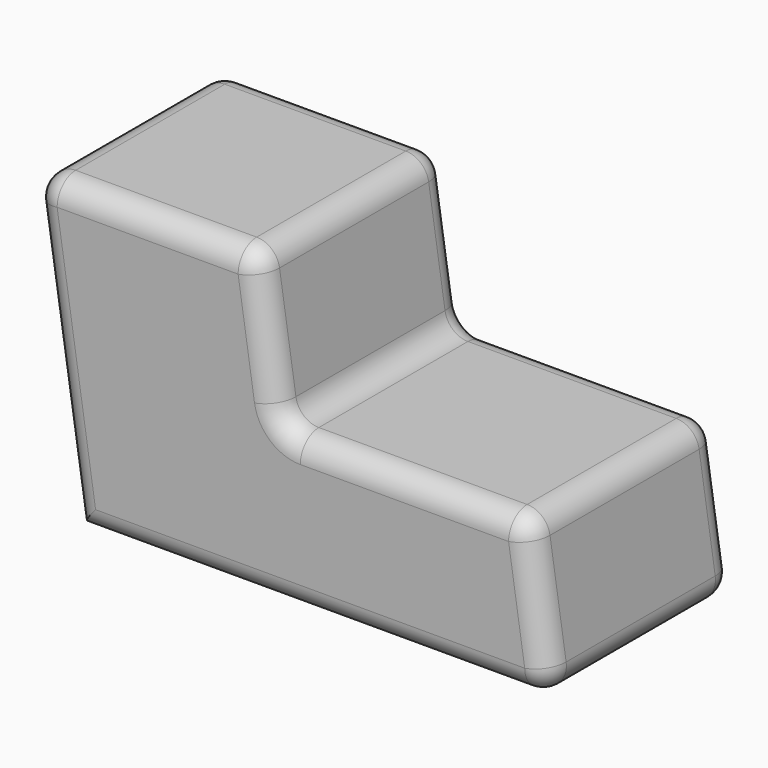
from build123d import *

# Parameters (mm, degrees)
F1_DEPTH = 51.054
F2_R     = 5.08


with BuildPart() as f1:
    # F0 (on Front) → F1 (new body)
    with BuildSketch(Plane.XZ):
        Polygon((-14.309117, 32.347076), (-64.300053, 32.347076), (-54.325373, -33.485826), (50.112445, -33.485826), (45.038836, 0), (-9.408046, 0), align=None)
    extrude(amount=F1_DEPTH)

    # F2
    f2_edges = [f1.edges().sort_by_distance(p)[0] for p in [
        (-39.304585, -51.054, 32.347076),
        (-59.312713, -51.054, -0.569375),
        (-2.106464, -51.054, -33.485826),
        (47.575641, -51.054, -16.742913),
        (17.815395, -51.054, 0),
        (-11.858581, -51.054, 16.173538),
        (-39.304585, 0, 32.347076),
        (-59.312713, 0, -0.569375),
        (-2.106464, 0, -33.485826),
        (47.575641, 0, -16.742913),
        (17.815395, 0, 0),
        (-11.858581, 0, 16.173538),
        (-9.408046, -25.527, 0),
        (-14.309117, -25.527, 32.347076),
        (45.038836, -25.527, 0),
        (50.112445, -25.527, -33.485826),
        (-64.300053, -25.527, 32.347076),
    ]]
    fillet(f2_edges, radius=F2_R)


solid = f1.part
